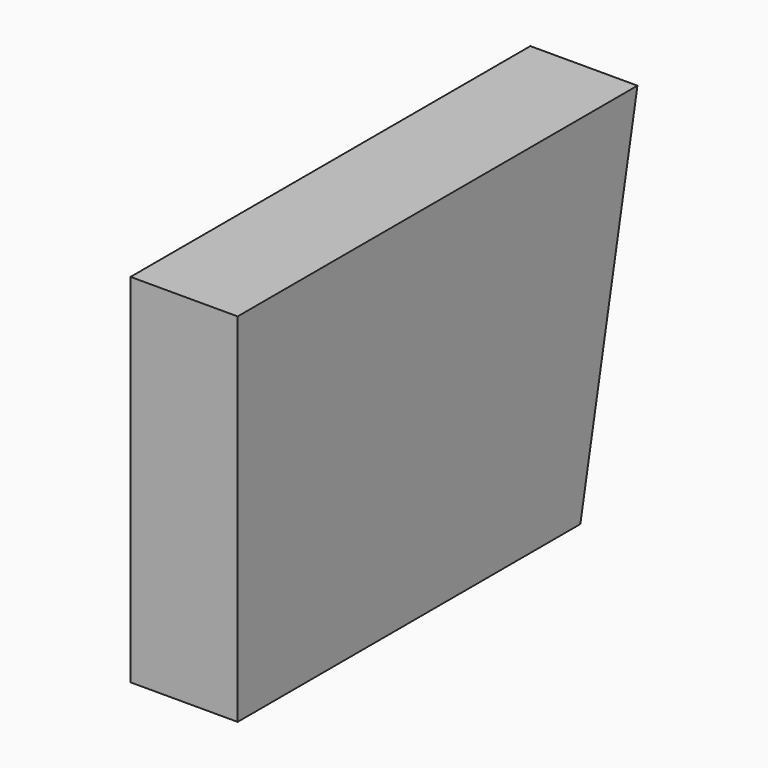
from build123d import *

# Parameters (mm, degrees)
F0_W     = 210
F0_H     = 150
F1_DEPTH = 45
F3_DEPTH = 69.1


with BuildPart() as f1:
    # F0 (on Right) → F1 (new body)
    with BuildSketch(Plane.YZ):
        Rectangle(F0_W, F0_H)
    extrude(amount=F1_DEPTH)

    # F2 (on face) → F3 (cut)
    with BuildSketch(Plane.YZ.offset(45)):
        Polygon((105, 75), (75, -75), (105, -75), align=None)
    extrude(amount=-F3_DEPTH, mode=Mode.SUBTRACT)


solid = f1.part
